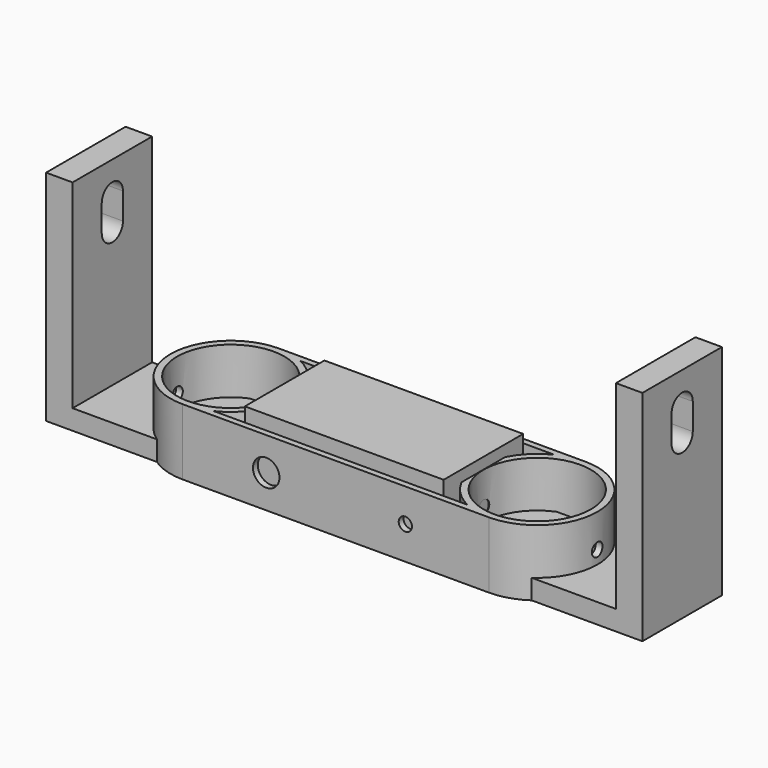
from build123d import *

# Parameters (mm, degrees)
SKETCH_W        = 90
SKETCH_H        = 15
PAD_DEPTH       = 3
SKETCH001_W     = 30
SKETCH001_H     = 15
PAD001_DEPTH    = 8.7
SKETCH002_R     = 2
POCKET_DEPTH    = 15.001
SKETCH003_W     = 4
SKETCH003_H     = 15
PAD002_DEPTH    = 30
POCKET001_DEPTH = 90.001
SKETCH005_R     = 8.1
PAD003_DEPTH    = 10
SKETCH006_W     = 64.8
SKETCH006_H     = 18.2
PAD004_DEPTH    = 10
SKETCH007_R     = 1
POCKET002_DEPTH = 64.801
SKETCH008_W     = 64.8
SKETCH008_H     = 18.2
POCKET003_DEPTH = 10
SKETCH009_R     = 2
SKETCH009_R_2   = 1
POCKET004_DEPTH = 2
SKETCH010_R     = 2
SKETCH010_R_2   = 1
POCKET005_DEPTH = 2


with BuildPart() as motorbracketbody:
    # Sketch → Pad (new body)
    with BuildSketch(Plane.XY):
        Rectangle(SKETCH_W, SKETCH_H)
    extrude(amount=PAD_DEPTH)

    # Sketch001 (on Face6 of Pad) → Pad001 (join)
    with BuildSketch(Plane.XY.offset(3)):
        Rectangle(SKETCH001_W, SKETCH001_H)
    extrude(amount=PAD001_DEPTH)

    # Sketch002 (on Face12 of Pad001) → Pocket (cut, through all)
    with BuildSketch(Plane.XZ.offset(7.5)):
        with Locations((8.65, 7.36)):
            Circle(SKETCH002_R)
        with Locations((-8.65, 7.36)):
            Circle(SKETCH002_R)
    extrude(amount=-POCKET_DEPTH, mode=Mode.SUBTRACT)

    # Sketch003 (on Face5 of Pocket) → Pad002 (join)
    with BuildSketch(Plane.XY.offset(3)):
        with Locations((-43, 0)):
            Rectangle(SKETCH003_W, SKETCH003_H)
        with Locations((43, 0)):
            Rectangle(SKETCH003_W, SKETCH003_H)
    extrude(amount=PAD002_DEPTH)

    # Sketch004 (on Face11 of Pad002) → Pocket001 (cut, through all)
    with BuildSketch(Plane(origin=(-45, 0, 0), x_dir=(0, -1, 0), z_dir=(-1, 0, 0))):
        with BuildLine():
            ThreePointArc((2, 27.999998), (0, 30), (-2, 27.999998))
            Line((-2, 27.999998), (-2, 23.999985))
            ThreePointArc((-2, 23.999985), (0, 22), (2, 23.999985))
            Line((2, 27.999998), (2, 23.999985))
        make_face()
    extrude(amount=-POCKET001_DEPTH, mode=Mode.SUBTRACT)


with BuildPart() as motorringsbody:
    # Sketch005 → Pad003 (new body)
    with BuildSketch(Plane.XY):
        with BuildLine():
            ThreePointArc((-23.125, 9.1), (-32.225, 0), (-23.125, -9.1))
            Line((23.125, -9.1), (-23.125, -9.1))
            ThreePointArc((23.125, -9.1), (32.225, 0), (23.125, 9.1))
            Line((-23.125, 9.1), (23.125, 9.1))
        make_face()
        with Locations((-23.125, 0)):
            Circle(SKETCH005_R, mode=Mode.SUBTRACT)
        with Locations((23.125, 0)):
            Circle(SKETCH005_R, mode=Mode.SUBTRACT)
        with BuildLine():
            ThreePointArc((-19.14, -8.181062), (-14.025005, 0.00945), (-19.157, 8.189321))
            Line((-19.157, 8.189321), (19.123, 8.189321))
            Line((19.123, 8.189321), (19.123, 8.172759))
            ThreePointArc((19.123, 8.172759), (14.025005, -0.00946), (19.14, -8.181062))
            Line((19.14, -8.181062), (-19.14, -8.181062))
        make_face(mode=Mode.SUBTRACT)
    extrude(amount=PAD003_DEPTH)

    # Sketch006 (on Face13 of Pad003) → Pad004 (join)
    with BuildSketch(Plane.XY.offset(10)):
        Rectangle(SKETCH006_W, SKETCH006_H)
    extrude(amount=PAD004_DEPTH)

    # Sketch007 (on Face2 of Pad004) → Pocket002 (cut, through all)
    with BuildSketch(Plane(origin=(-32.4, 0, 0), x_dir=(0, -1, 0), z_dir=(-1, 0, 0))):
        with Locations((0, 5)):
            Circle(SKETCH007_R)
    extrude(amount=-POCKET002_DEPTH, mode=Mode.SUBTRACT)

    # Sketch008 (on Face7 of Pocket002) → Pocket003 (cut)
    with BuildSketch(Plane.XY.offset(20)):
        Rectangle(SKETCH008_W, SKETCH008_H)
    extrude(amount=-POCKET003_DEPTH, mode=Mode.SUBTRACT)

    # Sketch009 (on Face6 of Pocket003) → Pocket004 (cut)
    with BuildSketch(Plane.XZ.offset(9.1)):
        with Locations((-10.5, 5)):
            Circle(SKETCH009_R)
        with Locations((10.5, 5)):
            Circle(SKETCH009_R_2)
    extrude(amount=-POCKET004_DEPTH, mode=Mode.SUBTRACT)

    # Sketch010 (on Face1 of Pocket004) → Pocket005 (cut)
    with BuildSketch(Plane(origin=(0, 9.1, 0), x_dir=(-1, 0, 0), z_dir=(0, 1, 0))):
        with Locations((-10.5, 5)):
            Circle(SKETCH010_R)
        with Locations((10.5, 5)):
            Circle(SKETCH010_R_2)
    extrude(amount=-POCKET005_DEPTH, mode=Mode.SUBTRACT)


solid = Compound([motorbracketbody.part, motorringsbody.part])
